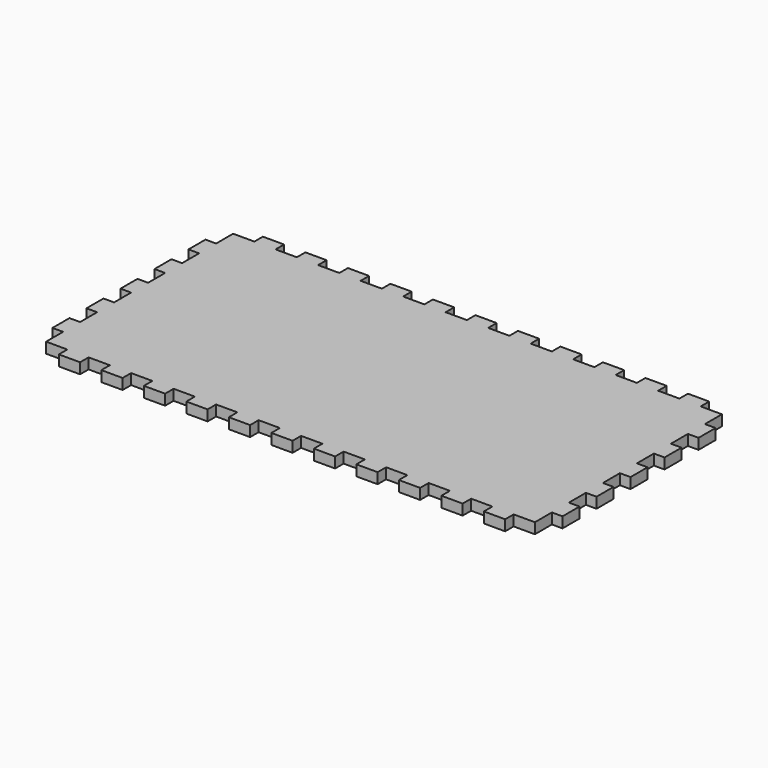
from build123d import *

# Parameters (mm, degrees)
F1_DEPTH = 12.7


with BuildPart() as f1:
    # F0 (on Top) → F1 (new body)
    with BuildSketch(Plane.XY):
        Polygon((266.7, 139.7), (266.7, 152.4), (241.3, 152.4), (241.3, 139.7), (215.9, 139.7), (215.9, 152.4), (190.5, 152.4), (190.5, 139.7), (165.1, 139.7), (165.1, 152.4), (139.7, 152.4), (139.7, 139.7), (114.3, 139.7), (114.3, 152.4), (88.9, 152.4), (88.9, 139.7), (63.5, 139.7), (63.5, 152.4), (38.1, 152.4), (38.1, 139.7), (12.7, 139.7), (12.7, 152.4), (-12.7, 152.4), (-12.7, 139.7), (-38.1, 139.7), (-38.1, 152.4), (-63.5, 152.4), (-63.5, 139.7), (-88.9, 139.7), (-88.9, 152.4), (-114.3, 152.4), (-114.3, 139.7), (-139.7, 139.7), (-139.7, 152.4), (-165.1, 152.4), (-165.1, 139.7), (-190.5, 139.7), (-190.5, 152.4), (-215.9, 152.4), (-215.9, 139.7), (-241.3, 139.7), (-241.3, 152.4), (-266.7, 152.4), (-266.7, 139.7), (-292.1, 139.7), (-292.1, 114.3), (-304.8, 114.3), (-304.8, 88.9), (-292.1, 88.9), (-292.1, 63.5), (-304.8, 63.5), (-304.8, 38.1), (-292.1, 38.1), (-292.1, 12.7), (-304.8, 12.7), (-304.8, -12.7), (-292.1, -12.7), (-292.1, -38.1), (-304.8, -38.1), (-304.8, -63.5), (-292.1, -63.5), (-292.1, -88.9), (-304.8, -88.9), (-304.8, -114.3), (-292.1, -114.3), (-292.1, -139.7), (-266.7, -139.7), (-266.7, -152.4), (-241.3, -152.4), (-241.3, -139.7), (-215.9, -139.7), (-215.9, -152.4), (-190.5, -152.4), (-190.5, -139.7), (-165.1, -139.7), (-165.1, -152.4), (-139.7, -152.4), (-139.7, -139.7), (-114.3, -139.7), (-114.3, -152.4), (-88.9, -152.4), (-88.9, -139.7), (-63.5, -139.7), (-63.5, -152.4), (-38.1, -152.4), (-38.1, -139.7), (-12.7, -139.7), (-12.7, -152.4), (12.7, -152.4), (12.7, -139.7), (38.1, -139.7), (38.1, -152.4), (63.5, -152.4), (63.5, -139.7), (88.9, -139.7), (88.9, -152.4), (114.3, -152.4), (114.3, -139.7), (139.7, -139.7), (139.7, -152.4), (165.1, -152.4), (165.1, -139.7), (190.5, -139.7), (190.5, -152.4), (215.9, -152.4), (215.9, -139.7), (241.3, -139.7), (241.3, -152.4), (266.7, -152.4), (266.7, -139.7), (292.1, -139.7), (292.1, -114.3), (304.8, -114.3), (304.8, -88.9), (292.1, -88.9), (292.1, -63.5), (304.8, -63.5), (304.8, -38.1), (292.1, -38.1), (292.1, -12.7), (304.8, -12.7), (304.8, 12.7), (292.1, 12.7), (292.1, 38.1), (304.8, 38.1), (304.8, 63.5), (292.1, 63.5), (292.1, 88.9), (304.8, 88.9), (304.8, 114.3), (292.1, 114.3), (292.1, 139.7), align=None)
    extrude(amount=F1_DEPTH)


solid = f1.part
